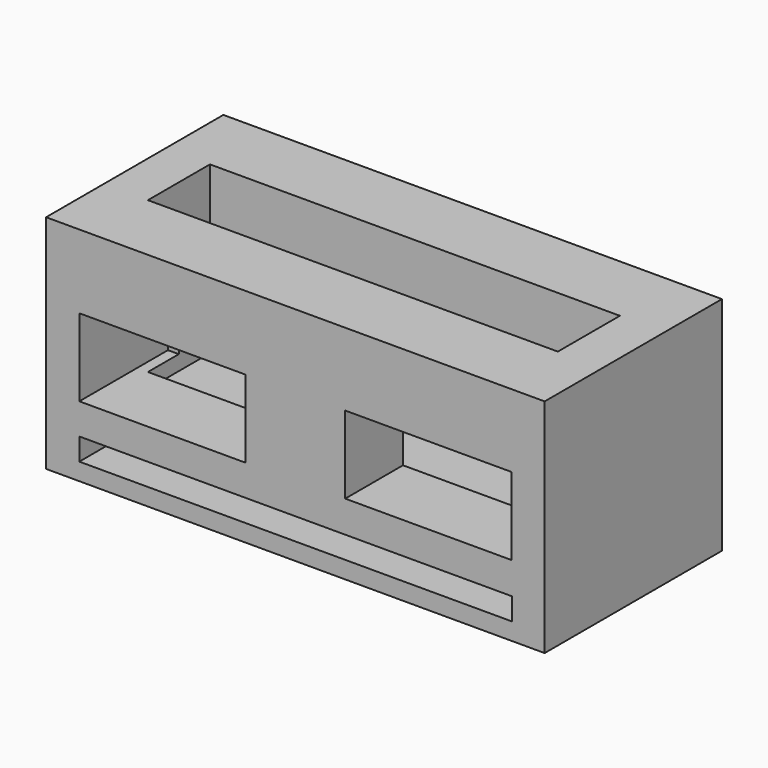
from build123d import *

# Parameters (mm, degrees)
F0_W     = 114.3
F0_H     = 50.8
F1_DEPTH = 50.8
F2_W     = 93.98
F2_H     = 17.78
F3_DEPTH = 38.1
F4_W     = 38.1
F4_H     = 17.78
F4_W_2   = 99.221253
F4_H_2   = 5.08
F5_DEPTH = 25.4
F6_DEPTH = 25.4


with BuildPart() as f1:
    # F0 (on Top) → F1 (new body)
    with BuildSketch(Plane.XY):
        with Locations((-0.874427, -22.725493)):
            Rectangle(F0_W, F0_H)
    extrude(amount=F1_DEPTH)

    # F2 (on face) → F3 (cut)
    with BuildSketch(Plane.XY.offset(50.8)):
        with Locations((-0.930555, -22.686988)):
            Rectangle(F2_W, F2_H)
    extrude(amount=-F3_DEPTH, mode=Mode.SUBTRACT)

    # F4 (on face) → F5 (cut)
    with BuildSketch(Plane.XZ.offset(48.125493)):
        with Locations((29.605573, 25.199144)):
            Rectangle(F4_W, F4_H)
        with Locations((-31.354427, 25.012475)):
            Rectangle(F4_W, F4_H)
        with Locations((-0.7938, 6.492384)):
            Rectangle(F4_W_2, F4_H_2)
    extrude(amount=-F5_DEPTH, mode=Mode.SUBTRACT)

    # F4 (on face) → F6 (cut)
    with BuildSketch(Plane.XZ.offset(48.125493)):
        with Locations((29.605573, 25.199144)):
            Rectangle(F4_W, F4_H)
        with Locations((-31.354427, 25.012475)):
            Rectangle(F4_W, F4_H)
        with Locations((-0.7938, 6.492384)):
            Rectangle(F4_W_2, F4_H_2)
    extrude(amount=-F6_DEPTH, mode=Mode.SUBTRACT)


solid = f1.part
